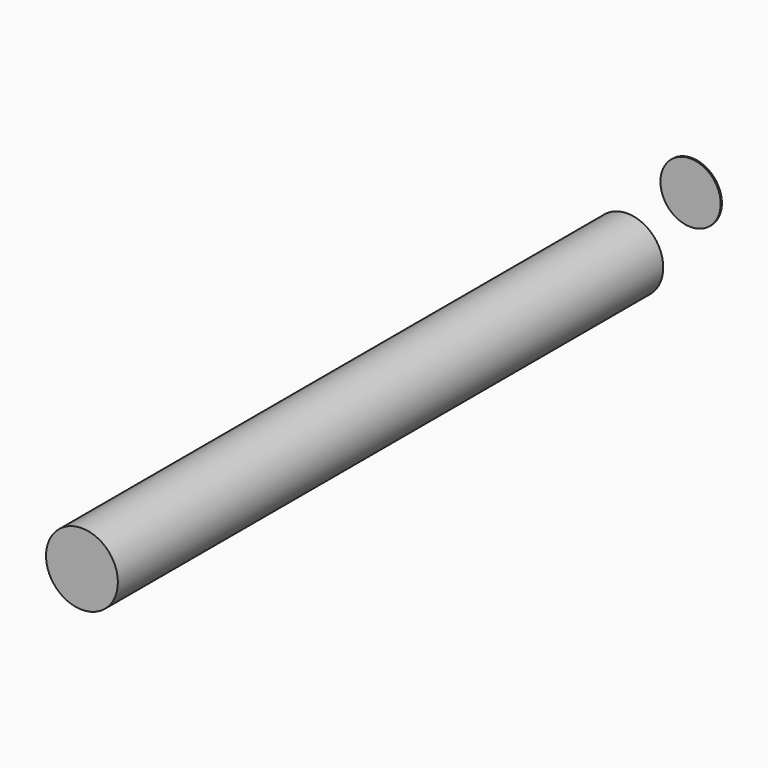
from build123d import *

# Parameters (mm, degrees)
F0_R     = 1.176963
F1_DEPTH = 22.3266
F2_R     = 0.986853
F3_DEPTH = 0.0508


with BuildPart() as f1:
    # F0 (on Front) → F1 (new body)
    with BuildSketch(Plane.XZ):
        with Locations((6.523911, 8.909646)):
            Circle(F0_R)
    extrude(amount=F1_DEPTH)


with BuildPart() as f3:
    # F2 (on face) → F3 (new body)
    with BuildSketch(Plane.XZ):
        with Locations((8.594715, 11.35427)):
            Circle(F2_R)
    extrude(amount=-F3_DEPTH)


solid = Compound([f1.part, f3.part])
